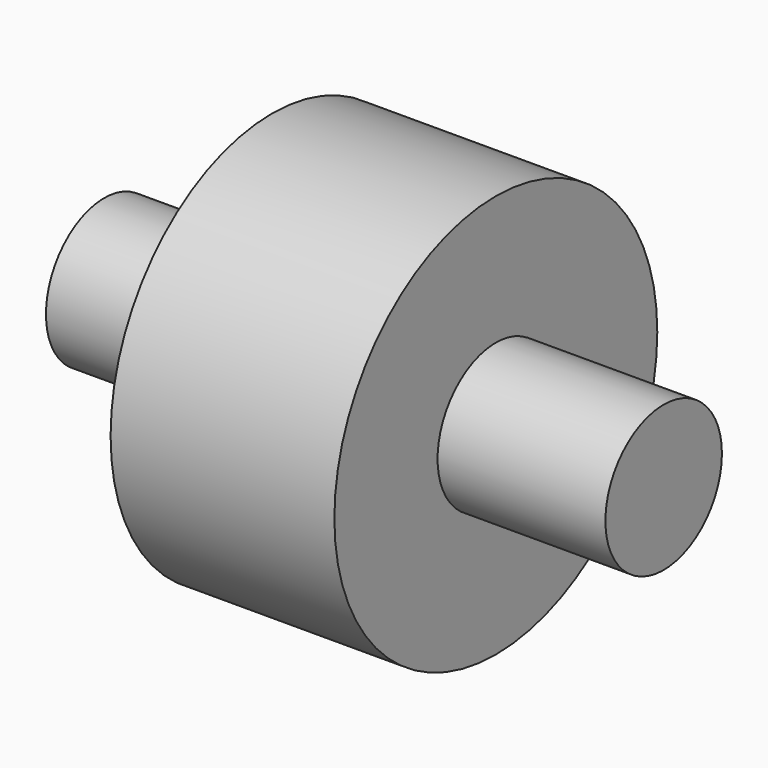
from build123d import *

# Parameters (mm, degrees)
F0_R          = 3.607713
F0_R_2        = 1.301758
F1_DEPTH      = 4
F2_DEPTH      = 7
F2_DEPTH_BACK = 3


with BuildPart() as f1:
    # F0 (on Right) → F1 (new body)
    with BuildSketch(Plane.YZ):
        Circle(F0_R)
        Circle(F0_R_2, mode=Mode.SUBTRACT)
    extrude(amount=F1_DEPTH)


with BuildPart() as f2:
    # F0 (on Right) → F2 (new body, two sides)
    with BuildSketch(Plane.YZ) as f2_sk:
        Circle(F0_R_2)
    extrude(amount=F2_DEPTH)
    extrude(f2_sk.sketch, amount=-F2_DEPTH_BACK)


solid = Compound([f1.part, f2.part])
